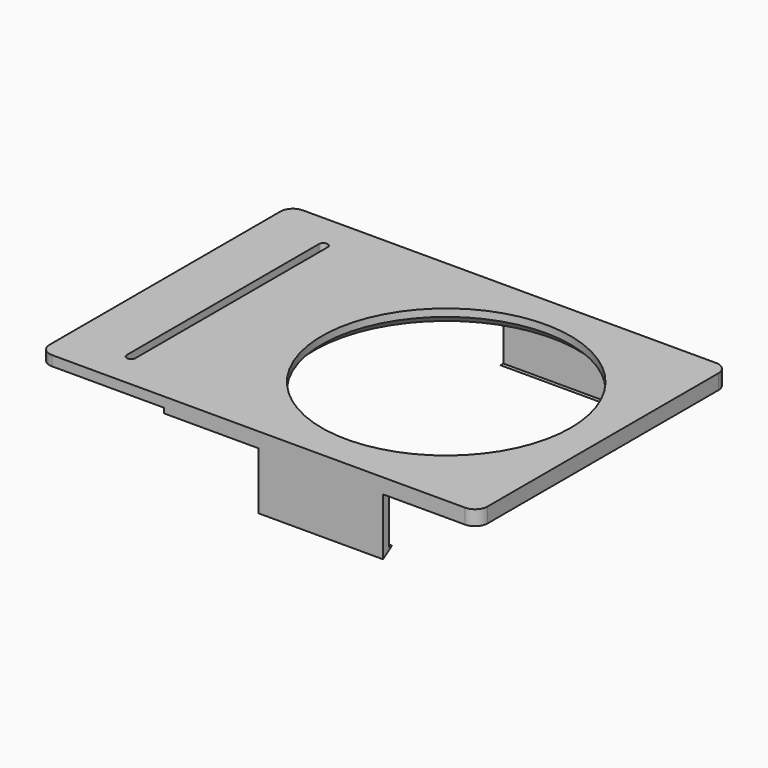
from build123d import *

# Parameters (mm, degrees)
F0_W     = 126
F0_H     = 126
F0_W_2   = 120
F0_H_2   = 120
F0_R     = 50
F0_W_3   = 50
F1_DEPTH = 4
F2_DEPTH = 2
F3_R     = 5
F4_W     = 50
F4_H     = 3
F5_DEPTH = 20
F6_W     = 50
F6_H     = 1.5
F6_H_2   = 3
F7_DEPTH = 3
F9_DEPTH = 50
F10_SIZE = 3


with BuildPart() as f1:
    # F0 (on Top) → F1 (new body)
    with BuildSketch(Plane.XY):
        Rectangle(F0_W, F0_H)
        Rectangle(F0_W_2, F0_H_2, mode=Mode.SUBTRACT)
        Rectangle(F0_W_2, F0_H_2)
        Circle(F0_R, mode=Mode.SUBTRACT)
        with Locations((-88, 0)):
            Rectangle(F0_W_3, F0_H)
        with BuildLine():
            Line((-86.25, 48.25), (-86.25, -48.25))
            ThreePointArc((-86.25, -48.25), (-88, -50), (-89.75, -48.25))
            Line((-89.75, -48.25), (-89.75, 48.25))
            ThreePointArc((-89.75, 48.25), (-88, 50), (-86.25, 48.25))
        make_face(mode=Mode.SUBTRACT)
    extrude(amount=F1_DEPTH)

    # F0 (on Top) → F2 (join)
    with BuildSketch(Plane.XY):
        Rectangle(F0_W, F0_H)
        Rectangle(F0_W_2, F0_H_2, mode=Mode.SUBTRACT)
        Rectangle(F0_W_2, F0_H_2)
        Circle(F0_R, mode=Mode.SUBTRACT)
    extrude(amount=-F2_DEPTH)

    # F3
    f3_edges = [f1.edges().sort_by_distance(p)[0] for p in [
        (-113, 63, 2),
        (-113, -63, 2),
        (63, 63, 1),
        (63, -63, 1),
    ]]
    fillet(f3_edges, radius=F3_R)

    # F4 (on face) → F5 (join)
    with BuildSketch(Plane(origin=(0, 0, -2), x_dir=(1, 0, 0), z_dir=(0, 0, -1))):
        with Locations((0, 61.5)):
            Rectangle(F4_W, F4_H)
        with Locations((0, -61.5)):
            Rectangle(F4_W, F4_H)
    extrude(amount=F5_DEPTH)

    # F6 (on face) → F7 (join)
    with BuildSketch(Plane(origin=(0, 0, -22), x_dir=(1, 0, 0), z_dir=(0, 0, -1))):
        Polygon((-25, 60), (-25, 58.5), (25, 58.5), (25, 60), (25, 63), (-25, 63), align=None)
        with Locations((0, -59.25)):
            Rectangle(F6_W, F6_H)
        with Locations((0, -61.5)):
            Rectangle(F6_W, F6_H_2)
    extrude(amount=F7_DEPTH)

    # F8 (on face) → F9 (cut, through all)
    with BuildSketch(Plane.YZ.offset(25)):
        Polygon((-58.5, -25), (-58.5, -22), (-63, -25), align=None)
        Polygon((63, -25), (58.5, -22), (58.5, -25), align=None)
    extrude(amount=-F9_DEPTH, mode=Mode.SUBTRACT)

    # F10
    f10_edges = [f1.edges().sort_by_distance(p)[0] for p in [
        (-50, 0, -2),
    ]]
    chamfer(f10_edges, length=F10_SIZE)


solid = f1.part
